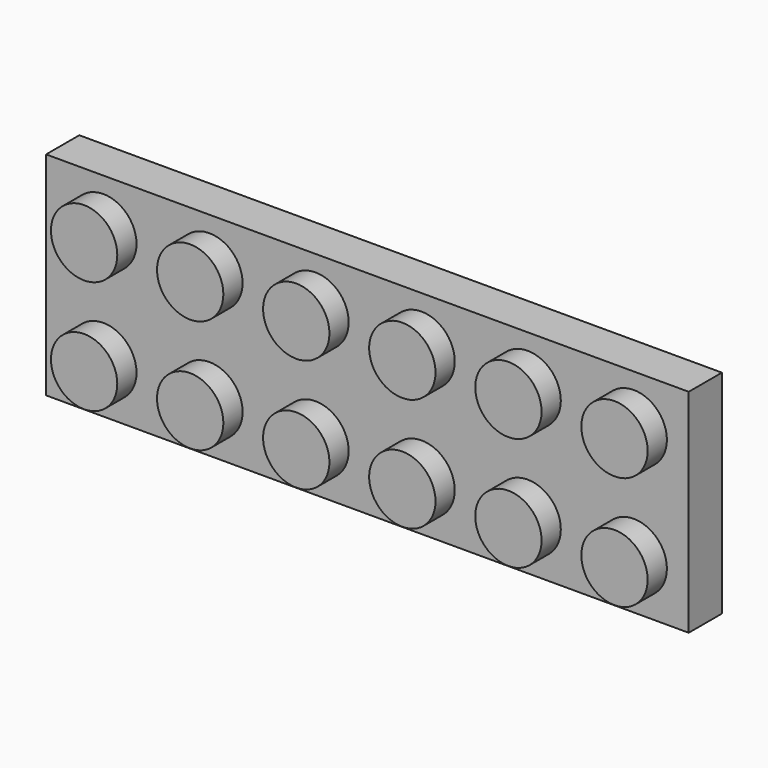
from build123d import *

# Parameters (mm, degrees)
F0_W      = 47.86
F0_H      = 15.8
F1_DEPTH  = 3.09
F2_R      = 2.47
F3_DEPTH  = 1.79
F4_W      = 45.02
F4_H      = 12.96
F5_DEPTH  = 2
F6_R      = 3.24
F7_DEPTH  = 2
F8_R      = 2.24
F9_DEPTH  = 2.2
F10_R     = 1.19
F11_DEPTH = 1.9


with BuildPart() as f1:
    # F0 (on Front) → F1 (new body)
    with BuildSketch(Plane.XZ):
        with Locations((23.93, 7.9)):
            Rectangle(F0_W, F0_H)
    extrude(amount=F1_DEPTH)

    # F2 (on face) → F3 (join)
    with BuildSketch(Plane.XZ.offset(3.09)):
        with Locations((4.263951, 12.12003)):
            Circle(F2_R)
        with Locations((12.163951, 12.12003)):
            Circle(F2_R)
        with Locations((20.063951, 12.12003)):
            Circle(F2_R)
        with Locations((27.963951, 12.12003)):
            Circle(F2_R)
        with Locations((35.863951, 12.12003)):
            Circle(F2_R)
        with Locations((43.763951, 12.12003)):
            Circle(F2_R)
        with Locations((4.263951, 3.674378)):
            Circle(F2_R)
        with Locations((12.163951, 3.674378)):
            Circle(F2_R)
        with Locations((20.063951, 3.674378)):
            Circle(F2_R)
        with Locations((27.963951, 3.674378)):
            Circle(F2_R)
        with Locations((35.863951, 3.674378)):
            Circle(F2_R)
        with Locations((43.763951, 3.674378)):
            Circle(F2_R)
    extrude(amount=F3_DEPTH)

    # F4 (on face) → F5 (cut)
    with BuildSketch(Plane(origin=(0, 0, 0), x_dir=(-1, 0, 0), z_dir=(0, 1, 0))):
        with Locations((-23.93, 7.9)):
            Rectangle(F4_W, F4_H)
    extrude(amount=-F5_DEPTH, mode=Mode.SUBTRACT)

    # F6 (on face) → F7 (join, through all)
    with BuildSketch(Plane(origin=(0, -2, 0), x_dir=(-1, 0, 0), z_dir=(0, 1, 0))):
        with Locations((-40.02, 7.9)):
            Circle(F6_R)
        with Locations((-31.82, 7.9)):
            Circle(F6_R)
        with Locations((-23.62, 7.9)):
            Circle(F6_R)
        with Locations((-15.42, 7.9)):
            Circle(F6_R)
        with Locations((-7.22, 7.9)):
            Circle(F6_R)
    extrude(amount=F7_DEPTH)

    # F8 (on face) → F9 (cut)
    with BuildSketch(Plane(origin=(0, -2, 0), x_dir=(-1, 0, 0), z_dir=(0, 1, 0))):
        with Locations((-40.02, 7.9)):
            Circle(F8_R)
        with Locations((-31.82, 7.9)):
            Circle(F8_R)
        with Locations((-23.62, 7.9)):
            Circle(F8_R)
        with Locations((-15.42, 7.9)):
            Circle(F8_R)
        with Locations((-7.22, 7.9)):
            Circle(F8_R)
    extrude(amount=F9_DEPTH, mode=Mode.SUBTRACT)

    # F10 (on face) → F11 (cut)
    with BuildSketch(Plane(origin=(0, -2, 0), x_dir=(-1, 0, 0), z_dir=(0, 1, 0))):
        with Locations((-44.157173, 11.981434)):
            Circle(F10_R)
        with Locations((-44.157173, 3.501521)):
            Circle(F10_R)
        with Locations((-36.057173, 11.981434)):
            Circle(F10_R)
        with Locations((-36.057173, 3.501521)):
            Circle(F10_R)
        with Locations((-27.957173, 11.981434)):
            Circle(F10_R)
        with Locations((-27.957173, 3.501521)):
            Circle(F10_R)
        with Locations((-19.857173, 11.981434)):
            Circle(F10_R)
        with Locations((-19.857173, 3.501521)):
            Circle(F10_R)
        with Locations((-11.757173, 11.981434)):
            Circle(F10_R)
        with Locations((-11.757173, 3.501521)):
            Circle(F10_R)
        with Locations((-3.657173, 11.981434)):
            Circle(F10_R)
        with Locations((-3.657173, 3.501521)):
            Circle(F10_R)
    extrude(amount=-F11_DEPTH, mode=Mode.SUBTRACT)


solid = f1.part
